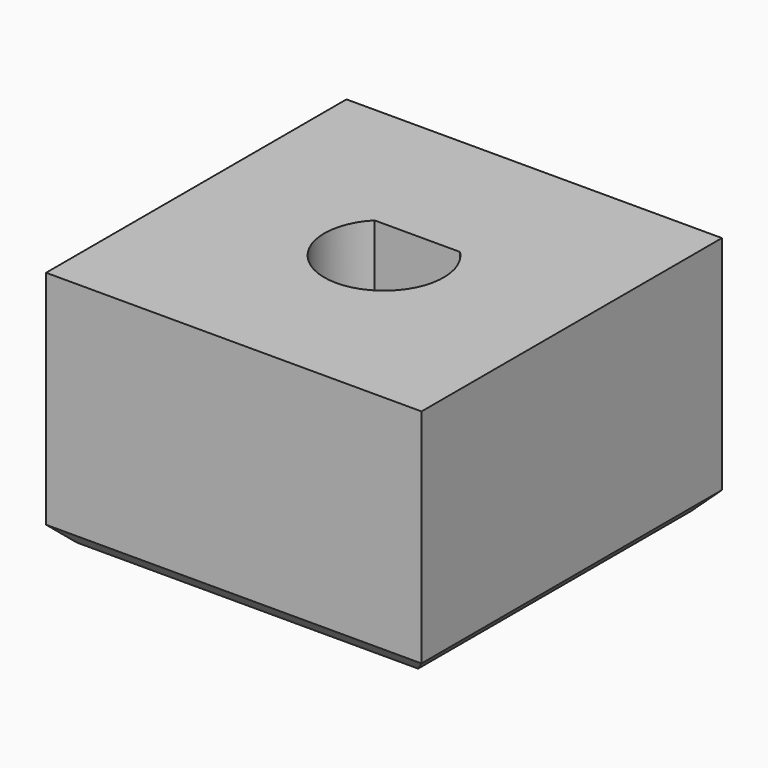
from build123d import *

# Parameters (mm, degrees)
F0_W     = 11
F0_H     = 11
F1_DEPTH = 7
F2_SIZE  = 0.5


with BuildPart() as f1:
    # F0 (on Top) → F1 (new body)
    with BuildSketch(Plane.XY):
        Rectangle(F0_W, F0_H)
        with BuildLine():
            ThreePointArc((1.254631, 1.22), (0, -1.75), (-1.254631, 1.22))
            Line((-1.254631, 1.22), (1.254631, 1.22))
        make_face(mode=Mode.SUBTRACT)
    extrude(amount=F1_DEPTH)

    # F2
    f2_edges = [f1.edges().sort_by_distance(p)[0] for p in [
        (5.5, 0, 0),
        (0, 5.5, 0),
        (-5.5, 0, 0),
        (0, -5.5, 0),
        (0, 1.22, 0),
        (0, -1.75, 0),
    ]]
    chamfer(f2_edges, length=F2_SIZE)


solid = f1.part
